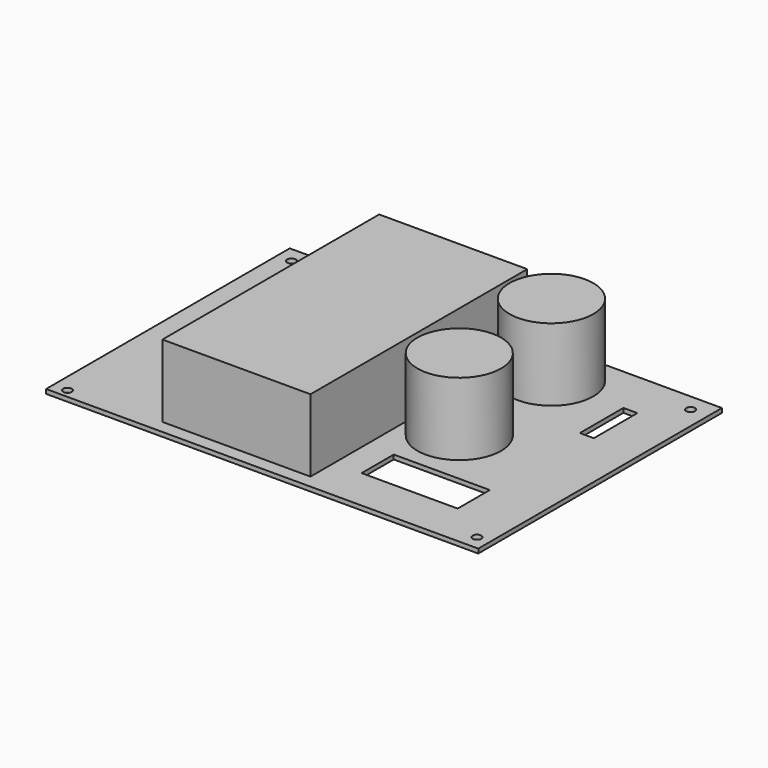
from build123d import *

# Parameters (mm, degrees)
F0_W     = 149
F0_H     = 105
F0_R     = 1.5
F0_W_2   = 33.111453
F0_H_2   = 13.840798
F0_W_3   = 2.506792
F0_H_3   = 6.893679
F1_DEPTH = 1.5
F2_R     = 14.448659
F2_R_2   = 14.420973
F2_W     = 51.051084
F2_H     = 93.409257
F3_DEPTH = 25


with BuildPart() as f1:
    # F0 (on Top) → F1 (new body)
    with BuildSketch(Plane.XY):
        with Locations((85.301603, 66.073295)):
            Rectangle(F0_W, F0_H)
        with Locations((15.801603, 16.551295)):
            Circle(F0_R, mode=Mode.SUBTRACT)
        with Locations((155.362383, 18.573295)):
            Circle(F0_R, mode=Mode.SUBTRACT)
        with Locations((124.325156, 35.264542)):
            Rectangle(F0_W_2, F0_H_2, mode=Mode.SUBTRACT)
        with Locations((15.801603, 113.073295)):
            Circle(F0_R, mode=Mode.SUBTRACT)
        with Locations((93.133986, 85.751564)):
            Rectangle(F0_W_3, F0_H_3, mode=Mode.SUBTRACT)
        Polygon((143.881068, 83.281852), (139.062896, 83.281852), (139.062896, 101.018407), (139.062896, 102.027573), (139.634994, 102.027573), (143.881068, 102.027573), align=None, mode=Mode.SUBTRACT)
        with Locations((153.801603, 112.573295)):
            Circle(F0_R, mode=Mode.SUBTRACT)
    extrude(amount=F1_DEPTH)

    # F2 (on face) → F3 (join)
    with BuildSketch(Plane.XY.offset(1.5)):
        with Locations((114.110582, 102.215961)):
            Circle(F2_R)
        with Locations((114.584744, 61.912477)):
            Circle(F2_R_2)
        with Locations((72.77975, 64.836449)):
            Rectangle(F2_W, F2_H)
    extrude(amount=F3_DEPTH)


solid = f1.part
